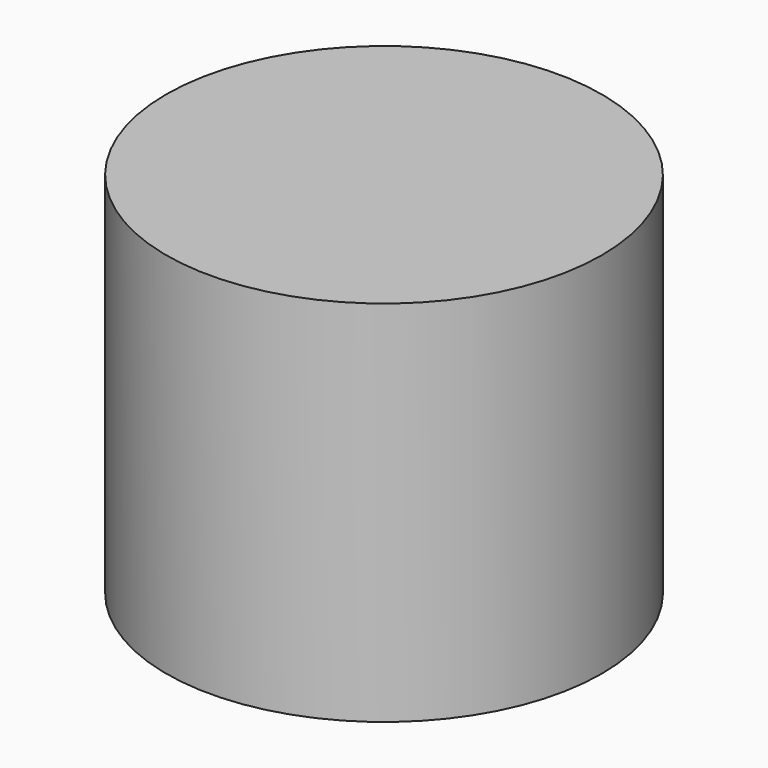
from build123d import *

# Parameters (mm, degrees)
F0_R      = 81.609427
F1_DEPTH  = 113.03
F1_FACE_R = 81.609427
F2_DEPTH  = 25


with BuildPart() as f1:
    # F0 (on Top) → F1 (new body)
    with BuildSketch(Plane.XY):
        Circle(F0_R)
    extrude(amount=F1_DEPTH)

    # F1_face (on face) → F2 (join)
    with BuildSketch(Plane.XY.offset(113.03)):
        Circle(F1_FACE_R)
    extrude(amount=F2_DEPTH)


solid = f1.part
